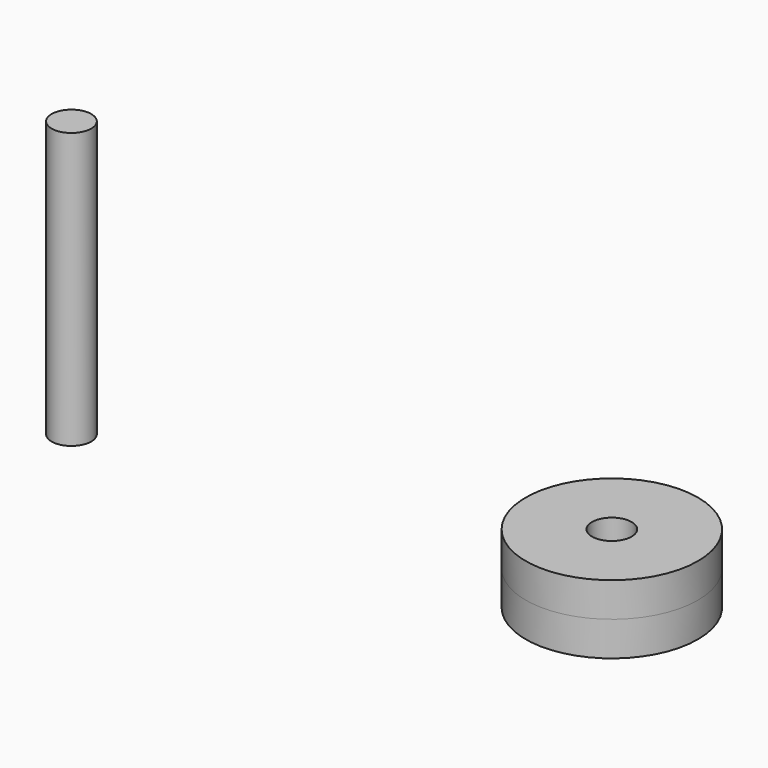
from build123d import *

# Parameters (mm, degrees)
F0_R          = 25
F1_DEPTH      = 10
F2_DEPTH      = 10
F3_R          = 5.75
F4_DEPTH      = 10
F4_DEPTH_BACK = 10
F5_R          = 5.75
F6_DEPTH      = 80


with BuildPart() as f1:
    # F0 (on Top) → F1 (new body)
    with BuildSketch(Plane.XY):
        Circle(F0_R)
    extrude(amount=F1_DEPTH)


with BuildPart() as f2:
    # F0 (on Top) → F2 (new body)
    with BuildSketch(Plane.XY):
        Circle(F0_R)
    extrude(amount=-F2_DEPTH)


with BuildPart() as f4_tool:
    # F3 (on Top) → F4 (new body, two sides)
    with BuildSketch(Plane.XY) as f4_sk:
        Circle(F3_R)
    extrude(amount=F4_DEPTH)
    extrude(f4_sk.sketch, amount=-F4_DEPTH_BACK)


with BuildPart() as f1_1:
    add(f1.part)

    # F4: cut by f4_tool
    add(f4_tool.part, mode=Mode.SUBTRACT)


with BuildPart() as f2_1:
    add(f2.part)

    # F4: cut by f4_tool
    add(f4_tool.part, mode=Mode.SUBTRACT)


with BuildPart() as f6:
    # F5 (on Top) → F6 (new body)
    with BuildSketch(Plane.XY):
        with Locations((-136.817604, -25.10508)):
            Circle(F5_R)
    extrude(amount=F6_DEPTH)


solid = Compound([f1_1.part, f2_1.part, f6.part])
